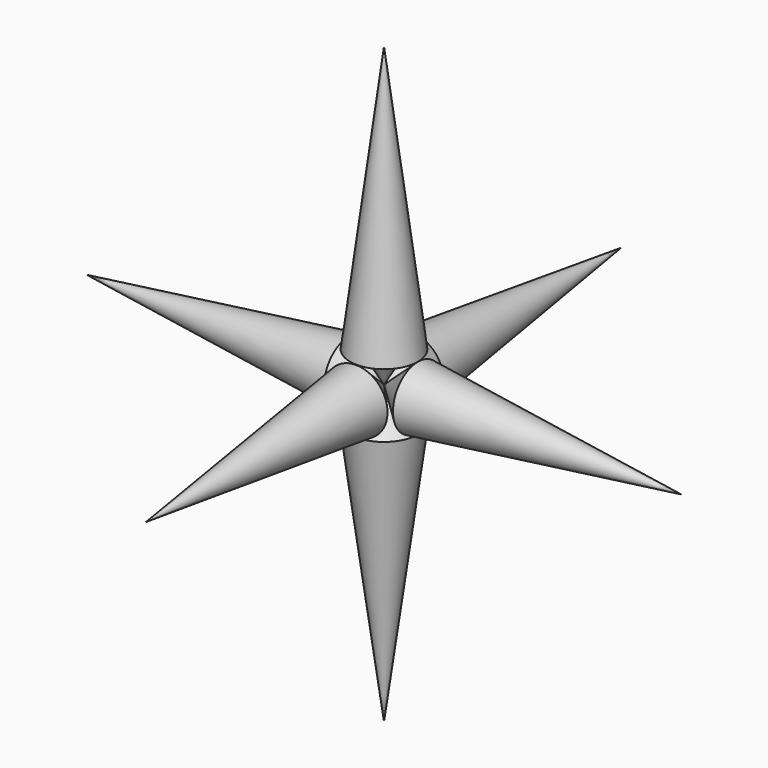
from build123d import *


with BuildPart() as f1:
    # F0 (on Front) → F1 (revolve)
    with BuildSketch(Plane.XZ):
        Polygon((0, 76.366812), (-8.6876, 7.986988), (-4.3438, 7.435112), (0, 0), align=None)
    revolve(axis=Axis((0, 0, 38.183406), (0, 0, -1)))


with BuildPart() as f3:
    # F2 (on Front) → F3 (revolve)
    with BuildSketch(Plane.XZ):
        Polygon((-76.226689, 0), (0, 0), (-8.967846, 7.986988), align=None)
    revolve(axis=Axis((-38.113344, 0, 0), (-1, 0, 0)))


with BuildPart() as f5:
    # F4 (on Front) → F5 (revolve)
    with BuildSketch(Plane.XZ):
        Polygon((0, -76.086566), (0, 0), (-8.967846, -8.267233), align=None)
    revolve(axis=Axis((0, 0, -38.043283), (0, 0, 1)))


with BuildPart() as f7:
    # F6 (on Front) → F7 (revolve)
    with BuildSketch(Plane.XZ):
        Polygon((76.226696, 0), (8.687602, 7.986988), (0, 0), align=None)
    revolve(axis=Axis((38.113348, 0, 0), (-1, 0, 0)))


with BuildPart() as f9:
    # F8 (on Right) → F9 (revolve)
    with BuildSketch(Plane.YZ):
        Polygon((-76.310128, 0), (0, 0), (-8.977662, 8.079136), align=None)
    revolve(axis=Axis((0, -38.155064, 0), (0, 1, 0)))


with BuildPart() as f11:
    # F10 (on Right) → F11 (revolve)
    with BuildSketch(Plane.YZ):
        Polygon((76.029569, 0), (8.697109, 8.359687), (8.697109, 4.179844), (0, 0), align=None)
    revolve(axis=Axis((0, 38.014784, 0), (0, -1, 0)))


solid = Compound([f1.part, f3.part, f5.part, f7.part, f9.part, f11.part])
